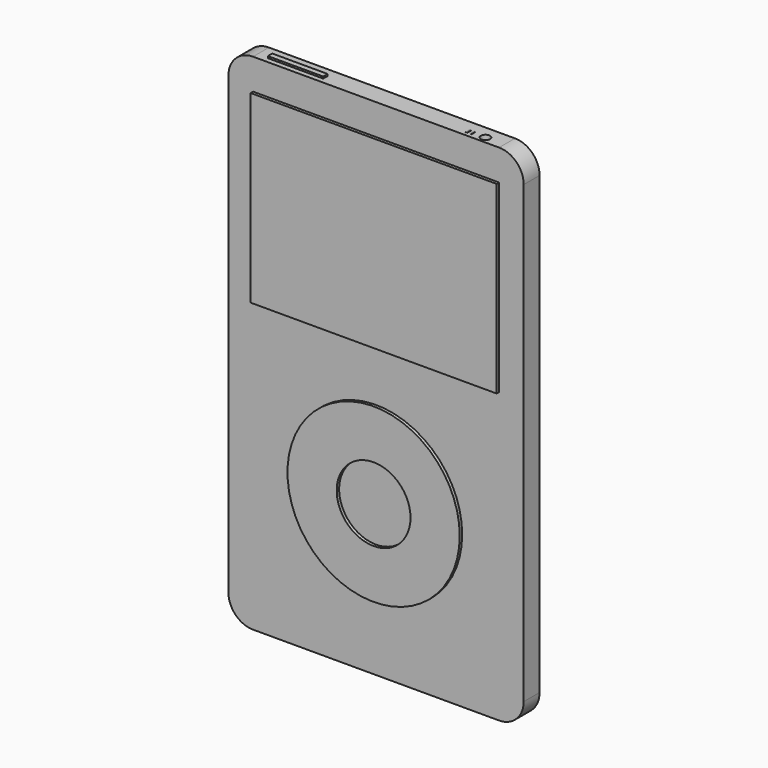
from build123d import *

# Parameters (mm, degrees)
F0_W      = 60.96
F0_H      = 104.14
F1_DEPTH  = 4.1
F2_W      = 50.8
F2_H      = 38.1
F2_R      = 17.78
F2_R_2    = 7.62
F3_DEPTH  = 0.635
F4_R      = 5.08
F5_R      = 1.27
F6_DEPTH  = 3.81
F7_W      = 0.127
F7_H      = 0.635
F7_H_2    = 0.641739
F8_DEPTH  = 0.0635
F9_W      = 23.568134
F9_H      = 1.790789
F10_DEPTH = 6.35
F11_W     = 11.43
F11_H     = 1.143
F12_DEPTH = 0.381
F13_R     = 0.9525
F14_DEPTH = 5.08
F15_W     = 0.323782
F15_H     = 1.115247
F15_W_2   = 0.323781
F16_DEPTH = 0.0381


with BuildPart() as f1:
    # F0 (on Front) → F1 (new body)
    with BuildSketch(Plane.XZ):
        with Locations((3.610969, -7.489684)):
            Rectangle(F0_W, F0_H)
    extrude(amount=F1_DEPTH)

    # F2 (on face) → F3 (join)
    with BuildSketch(Plane.XZ.offset(4.1)):
        with Locations((3.610969, 19.180316)):
            Rectangle(F2_W, F2_H)
        with Locations((3.610969, -28.233618)):
            Circle(F2_R)
        with Locations((3.610969, -28.233618)):
            Circle(F2_R_2, mode=Mode.SUBTRACT)
    extrude(amount=F3_DEPTH)

    # F4
    f4_edges = [f1.edges().sort_by_distance(p)[0] for p in [
        (-26.869031, -2.05, 44.580316),
        (34.090969, -2.05, 44.580316),
        (34.090969, -2.05, -59.559684),
        (-26.869031, -2.05, -59.559684),
    ]]
    fillet(f4_edges, radius=F4_R)

    # F5 (on face) → F6 (cut)
    with BuildSketch(Plane.XY.offset(44.580316)):
        with Locations((25.835969, -8.355387)):
            Circle(F5_R)
    extrude(amount=-F6_DEPTH, mode=Mode.SUBTRACT)

    # F7 (on face) → F8 (cut)
    with BuildSketch(Plane.XY.offset(44.580316)):
        with Locations((23.406764, -8.501846)):
            Rectangle(F7_W, F7_H)
        with Locations((23.75507, -8.505765)):
            Rectangle(F7_W, F7_H_2)
    extrude(amount=-F8_DEPTH, mode=Mode.SUBTRACT)

    # F9 (on face) → F10 (cut)
    with BuildSketch(Plane(origin=(0, 0, -59.559684), x_dir=(1, 0, 0), z_dir=(0, 0, -1))):
        with Locations((4.526902, 2.315605)):
            Rectangle(F9_W, F9_H)
    extrude(amount=-F10_DEPTH, mode=Mode.SUBTRACT)

    # F11 (on face) → F12 (join)
    with BuildSketch(Plane.XY.offset(44.580316)):
        with Locations((-13.885994, -2.445143)):
            Rectangle(F11_W, F11_H)
    extrude(amount=F12_DEPTH)

    # F13 (on face) → F14 (cut)
    with BuildSketch(Plane.XY.offset(44.580316)):
        with Locations((25.083786, -2.716642)):
            Circle(F13_R)
    extrude(amount=-F14_DEPTH, mode=Mode.SUBTRACT)

    # F15 (on face) → F16 (join)
    with BuildSketch(Plane.XY.offset(44.580316)):
        with Locations((21.622912, -2.742082)):
            Rectangle(F15_W, F15_H)
        with Locations((22.481088, -2.742082)):
            Rectangle(F15_W_2, F15_H)
    extrude(amount=F16_DEPTH)


solid = f1.part
